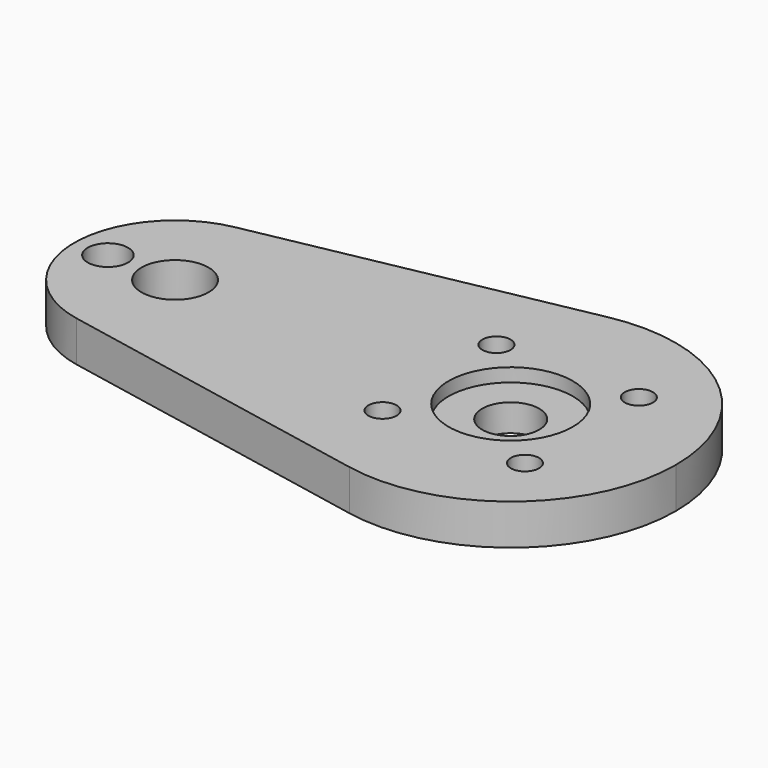
from build123d import *

# Parameters (mm, degrees)
F0_R     = 2.1
F0_R_2   = 4.25
F0_R_3   = 3
F0_R_4   = 5
F1_DEPTH = 3.025
F2_R     = 9.25
F3_DEPTH = 2


with BuildPart() as f1:
    # F0 (on Top) → F1 (new body, symmetric)
    with BuildSketch(Plane.XY):
        with BuildLine():
            ThreePointArc((-4.7232, -24.142315), (15.636005, -18.991455), (24.6, 0))
            ThreePointArc((24.6, 0), (15.636005, 18.991455), (-4.7232, 24.142315))
            ThreePointArc((-4.7232, 24.142315), (-24.6, 0), (-4.7232, -24.142315))
        make_face()
        with Locations((-10.606602, -10.606602)):
            Circle(F0_R, mode=Mode.SUBTRACT)
        with Locations((10.606602, -10.606602)):
            Circle(F0_R, mode=Mode.SUBTRACT)
        Circle(F0_R_2, mode=Mode.SUBTRACT)
        with Locations((-10.606602, 10.606602)):
            Circle(F0_R, mode=Mode.SUBTRACT)
        with Locations((10.606602, 10.606602)):
            Circle(F0_R, mode=Mode.SUBTRACT)
        with BuildLine():
            ThreePointArc((-4.7232, -24.142315), (-24.6, 0), (-4.7232, 24.142315))
            Line((-4.7232, 24.142315), (-52.88, 14.720924))
            ThreePointArc((-52.88, 14.720924), (-40.465851, 11.580155), (-35, 0))
            ThreePointArc((-35, 0), (-40.465851, -11.580155), (-52.88, -14.720924))
            Line((-52.88, -14.720924), (-4.7232, -24.142315))
        make_face()
        with BuildLine():
            ThreePointArc((-35, 0), (-40.465851, 11.580155), (-52.88, 14.720924))
            ThreePointArc((-52.88, 14.720924), (-65, 0), (-52.88, -14.720924))
            ThreePointArc((-52.88, -14.720924), (-40.465851, -11.580155), (-35, 0))
        make_face()
        with Locations((-60, 0)):
            Circle(F0_R_3, mode=Mode.SUBTRACT)
        with Locations((-50, 0)):
            Circle(F0_R_4, mode=Mode.SUBTRACT)
    extrude(amount=F1_DEPTH, both=True)

    # F2 (on face) → F3 (cut)
    with BuildSketch(Plane.XY.offset(3.025)):
        Circle(F2_R)
    extrude(amount=-F3_DEPTH, mode=Mode.SUBTRACT)


solid = f1.part
